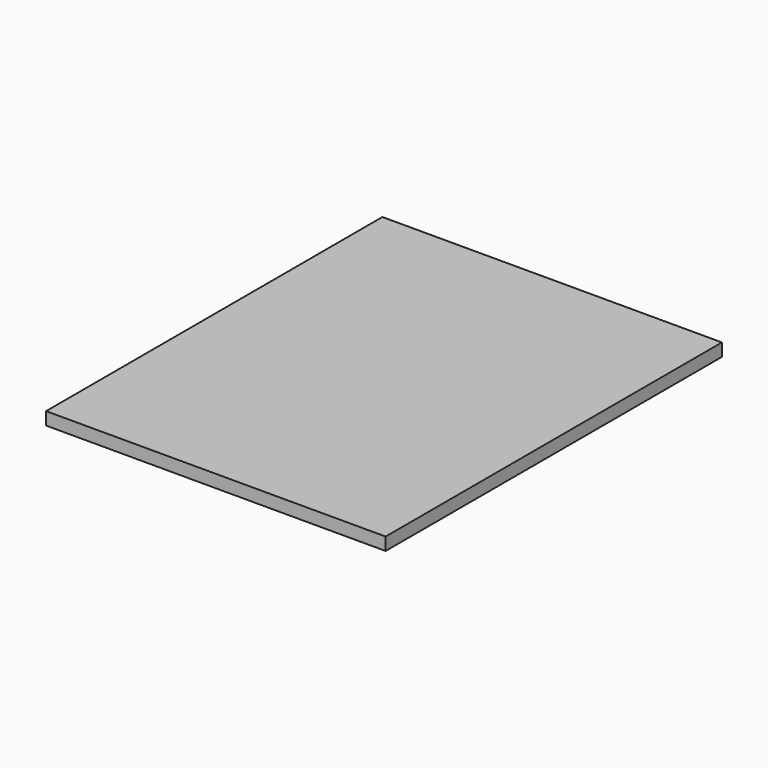
from build123d import *

# Parameters (mm, degrees)
F0_W     = 133.35
F0_H     = 165.1
F1_DEPTH = 5
F3_R     = 15
F3_R_2   = 13.5
F4_DEPTH = 25


with BuildPart() as f1:
    # F0 (on Top) → F1 (new body)
    with BuildSketch(Plane.XY):
        with Locations((-66.675, 82.55)):
            Rectangle(F0_W, F0_H)
    extrude(amount=F1_DEPTH)


with BuildPart() as f4:
    # F3 (on mid) → F4 (new body, symmetric)
    with BuildSketch(Plane.YZ.offset(-66.675)):
        with Locations((65, -15)):
            Circle(F3_R)
        with Locations((65, -15)):
            Circle(F3_R_2, mode=Mode.SUBTRACT)
    extrude(amount=F4_DEPTH, both=True)


solid = Compound([f1.part, f4.part])
